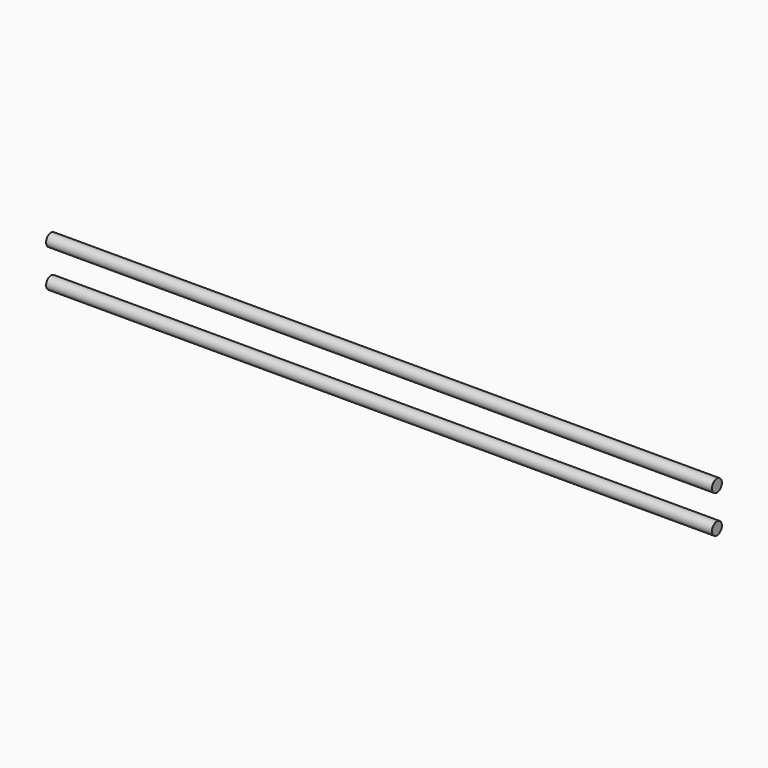
from build123d import *

# Parameters (mm, degrees)
SKETCH032_R  = 1.25
PAD017_DEPTH = 133.62
SKETCH033_R  = 1.25
PAD018_DEPTH = 133.62


with BuildPart() as obj1:
    # Sketch032 (on DatumPlane) → Pad017 (new body)
    with BuildSketch(Plane.YZ.offset(-5.18)):
        with Locations((-14, 14.3)):
            Circle(SKETCH032_R)
    extrude(amount=-PAD017_DEPTH)


with BuildPart() as tige2:
    # Sketch033 (on DatumPlane) → Pad018 (new body)
    with BuildSketch(Plane.YZ.offset(-5.18)):
        with Locations((-14, 21.86)):
            Circle(SKETCH033_R)
    extrude(amount=-PAD018_DEPTH)


solid = Compound([obj1.part, tige2.part])
